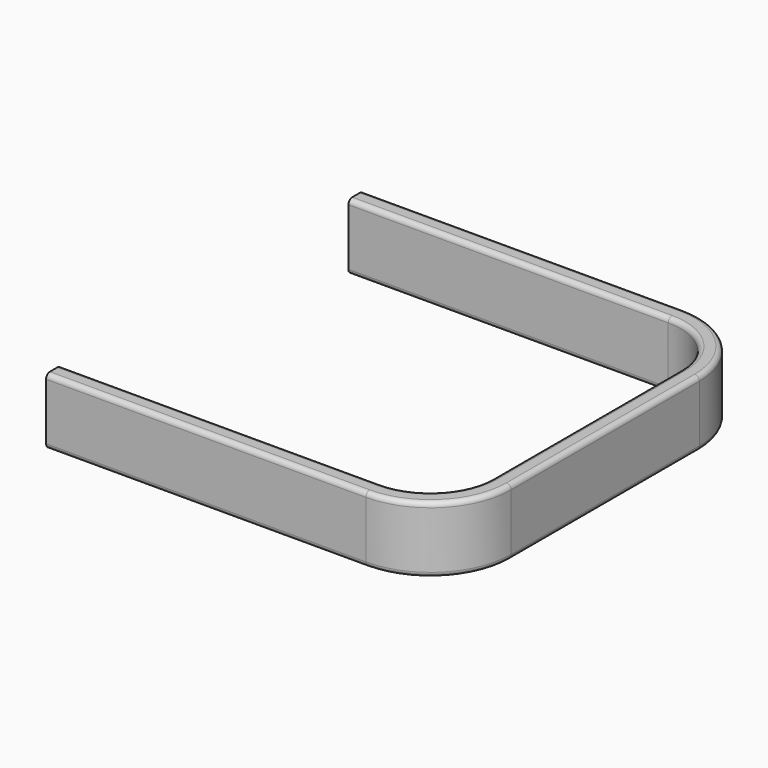
from build123d import *


with BuildPart() as f2:
    # F2: sweep along a path in F0
    with BuildLine(Plane.XY) as f2_path:
        Line((0, 0), (32.815609, 0))
        ThreePointArc((32.815609, 0), (37.305737, -1.859872), (39.165609, -6.35))
        Line((39.165609, -6.35), (39.165609, -30.496593))
        ThreePointArc((39.165609, -30.496593), (37.305737, -34.986721), (32.815609, -36.846593))
        Line((32.815609, -36.846593), (0, -36.846593))
    # F1 (on Right) → F2 (sweep)
    with BuildSketch(Plane.YZ):
        with BuildLine():
            Line((1.44584, 0), (0.486555, 0))
            ThreePointArc((0.486555, 0), (0.142509, -0.142509), (0, -0.486555))
            Line((0, -0.486555), (0, -6.313303))
            ThreePointArc((0, -6.313303), (0.142509, -6.657349), (0.486555, -6.799858))
            Line((0.486555, -6.799858), (1.44584, -6.799858))
            ThreePointArc((1.44584, -6.799858), (1.789887, -6.657349), (1.932396, -6.313303))
            Line((1.932396, -6.313303), (1.932396, -0.486555))
            ThreePointArc((1.932396, -0.486555), (1.789887, -0.142509), (1.44584, 0))
        make_face()
    sweep(path=f2_path.line)


solid = f2.part
